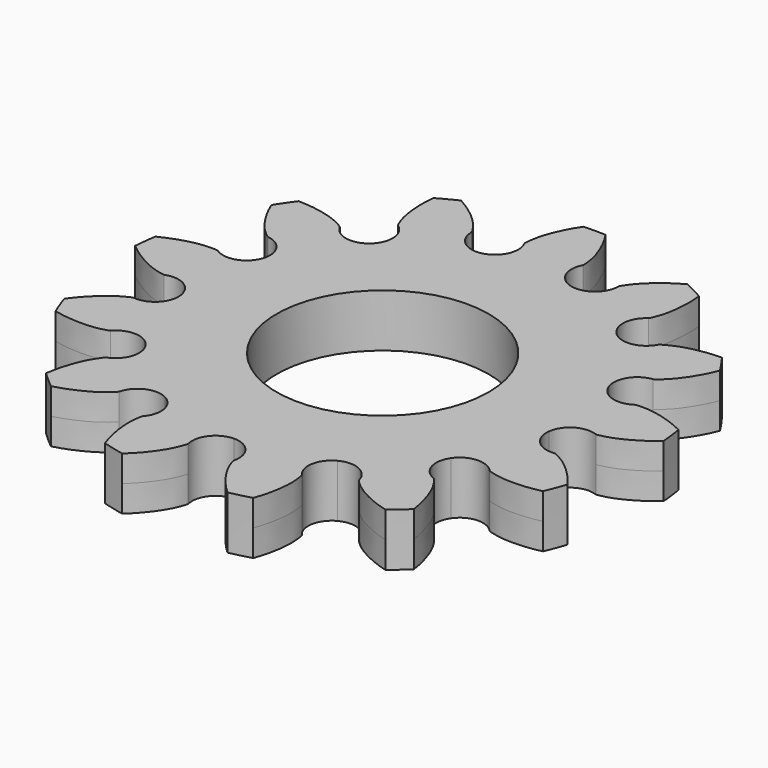
from build123d import *

# Parameters (mm, degrees)
F3_DEPTH = 1.5
F4_COUNT = 13
F5_R     = 6
F6_DEPTH = 3.0010001


with BuildPart() as f3:
    # F2 (on Top) → F3 (new body, symmetric)
    with BuildSketch(Plane.XY):
        with BuildLine():
            add(Edge.make_bspline(
                [(-1.658680778, 12.1028729449), (-1.6681853307, 12.1722246823), (-1.6612467351, 12.3047104537), (-1.5949916142, 12.9207155238), (-1.2679734981, 13.8631093379), (-0.9433990548, 14.500890783), (-0.6268568479, 14.9868959592)],
                knots=[0, 0, 0, 0, 0.131393115, 0.3588720962, 0.6525358038, 1, 1, 1, 1], degree=3))
            ThreePointArc((-1.658680778, 12.1028729449), (-1.6200676185, 10.9404133247), (-2.512814475, 10.194889083))
            Line((-2.512814475, 10.194889083), (0, 0))
            Line((0, 0), (2.512814475, 10.194889083))
            ThreePointArc((2.512814475, 10.194889083), (1.6200676185, 10.9404133247), (1.658680778, 12.1028729449))
            add(Edge.make_bspline(
                [(1.658680778, 12.1028729449), (1.6681853307, 12.1722246823), (1.6612467351, 12.3047104537), (1.5949916142, 12.9207155238), (1.2679734981, 13.8631093379), (0.9433990548, 14.500890783), (0.6268568479, 14.9868959592)],
                knots=[0, 0, 0, 0, 0.131393115, 0.3588720962, 0.6525358038, 1, 1, 1, 1], degree=3))
            ThreePointArc((0.6268568479, 14.9868959592), (0, 15), (-0.6268568479, 14.9868959592))
        make_face()
    extrude(amount=F3_DEPTH, both=True)

    # F4: F3 ×13 about axis
    f4_axis = Axis((0, 0, 0), (0, 0, -1))


with BuildPart() as f3_1:
    add(f3.part)
    for i in range(1, F4_COUNT):
        add(f3.part.rotate(f4_axis, i * 360 / F4_COUNT))

    # F5 (on face) → F6 (cut, through all)
    with BuildSketch(Plane.XY.offset(1.5)):
        Circle(F5_R)
    extrude(amount=-F6_DEPTH, mode=Mode.SUBTRACT)


solid = f3_1.part
